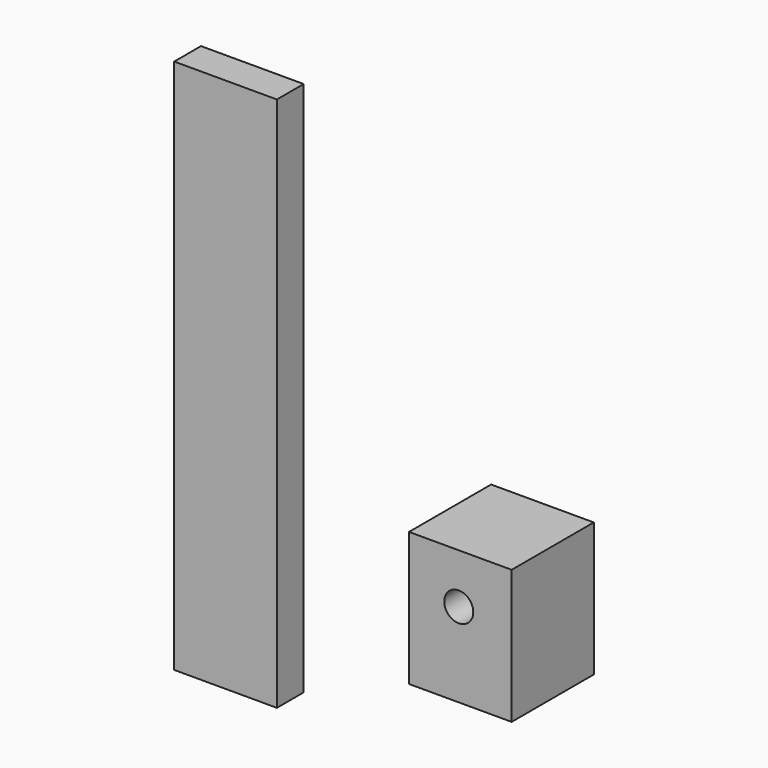
from build123d import *

# Parameters (mm, degrees)
F0_W     = 58.42
F0_H     = 76.2
F1_DEPTH = 58.42
F2_R     = 8.255
F3_DEPTH = 58.421
F0_H_2   = 304.8
F4_DEPTH = 19.05


with BuildPart() as f1:
    # F0 (on Front) → F1 (new body)
    with BuildSketch(Plane.XZ):
        with Locations((-17.835218, 12.378907)):
            Rectangle(F0_W, F0_H)
    extrude(amount=F1_DEPTH)

    # F2 (on face) → F3 (cut, through all)
    with BuildSketch(Plane.XZ.offset(58.42)):
        with Locations((-18.724218, 22.157907)):
            Circle(F2_R)
    extrude(amount=-F3_DEPTH, mode=Mode.SUBTRACT)


with BuildPart() as f4:
    # F0 (on Front) → F4 (new body)
    with BuildSketch(Plane.XZ):
        with Locations((-182.92606, 64.027352)):
            Rectangle(F0_W, F0_H_2)
    extrude(amount=F4_DEPTH)


solid = Compound([f1.part, f4.part])
